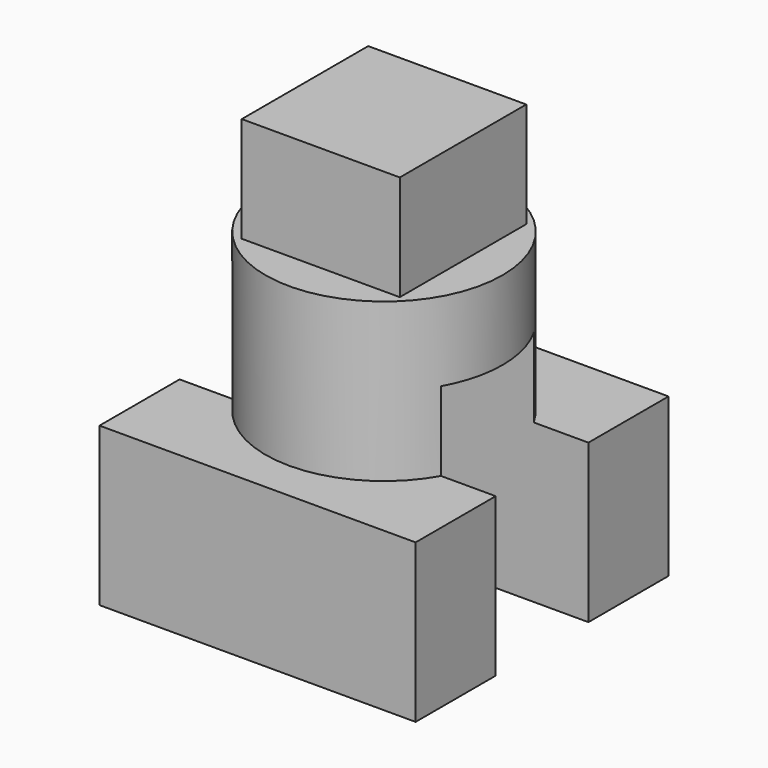
from build123d import *

# Parameters (mm, degrees)
F0_W     = 60
F0_H     = 60
F1_DEPTH = 30
F2_R     = 22.5
F3_DEPTH = 30
F4_W     = 30
F4_H     = 30
F5_DEPTH = 20
F6_W     = 22
F6_H     = 45
F7_DEPTH = 60


with BuildPart() as f1:
    # F0 (on Top) → F1 (new body)
    with BuildSketch(Plane.XY):
        Rectangle(F0_W, F0_H)
    extrude(amount=F1_DEPTH)

    # F2 (on face) → F3 (join)
    with BuildSketch(Plane.XY.offset(30)):
        Circle(F2_R)
    extrude(amount=F3_DEPTH)

    # F4 (on face) → F5 (join)
    with BuildSketch(Plane.XY.offset(60)):
        Rectangle(F4_W, F4_H)
    extrude(amount=F5_DEPTH)

    # F6 (on face) → F7 (cut)
    with BuildSketch(Plane.YZ.offset(30)):
        with Locations((0, 22.5)):
            Rectangle(F6_W, F6_H)
    extrude(amount=-F7_DEPTH, mode=Mode.SUBTRACT)


solid = f1.part
